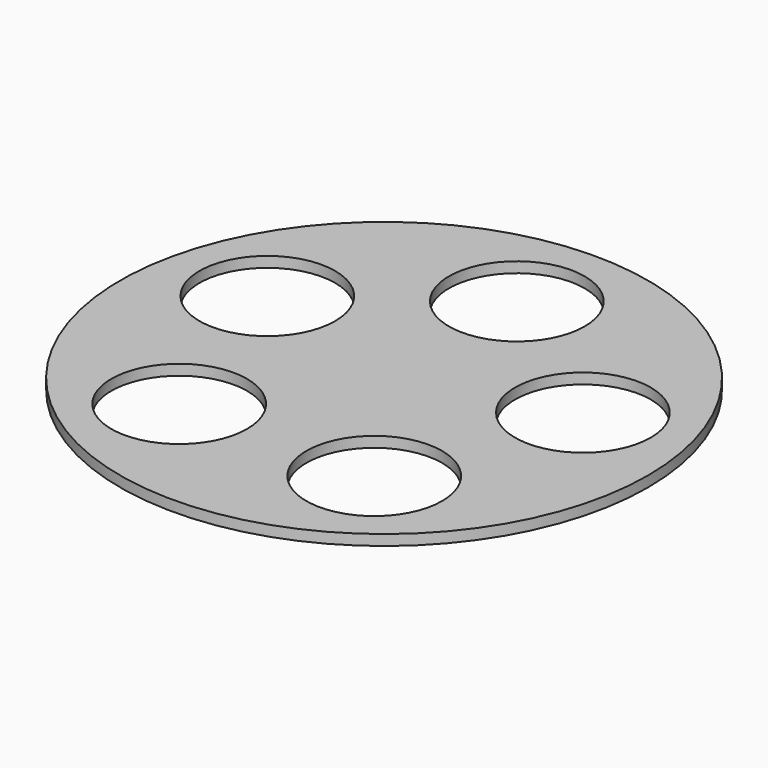
from build123d import *

# Parameters (mm, degrees)
F0_R     = 44.45
F0_R_2   = 11.43
F1_DEPTH = 1.778


with BuildPart() as f1:
    # F0 (on Top) → F1 (new body)
    with BuildSketch(Plane.XY):
        Circle(F0_R)
        with Locations((-16.42272, -22.603935)):
            Circle(F0_R_2, mode=Mode.SUBTRACT)
        with Locations((16.42272, -22.603935)):
            Circle(F0_R_2, mode=Mode.SUBTRACT)
        with Locations((-26.572519, 8.633935)):
            Circle(F0_R_2, mode=Mode.SUBTRACT)
        with Locations((26.572519, 8.633935)):
            Circle(F0_R_2, mode=Mode.SUBTRACT)
        with Locations((0, 27.94)):
            Circle(F0_R_2, mode=Mode.SUBTRACT)
    extrude(amount=F1_DEPTH)


solid = f1.part
